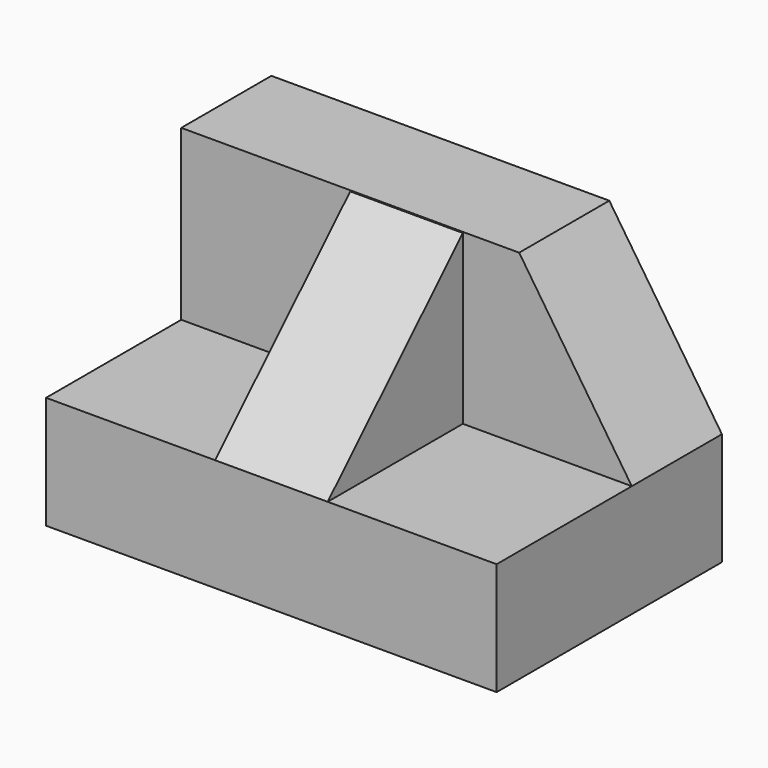
from build123d import *

# Parameters (mm, degrees)
F0_W     = 50.8
F0_H     = 31.75
F1_DEPTH = 31.75
F2_W     = 19.05
F2_H     = 19.05
F3_DEPTH = 50.8
F5_DEPTH = 12.7
F7_START = -19.05
F7_DEPTH = 12.7


with BuildPart() as f1:
    # F0 (on Front) → F1 (new body)
    with BuildSketch(Plane.XZ):
        with Locations((25.4, 15.875)):
            Rectangle(F0_W, F0_H)
    extrude(amount=F1_DEPTH)

    # F2 (on face) → F3 (cut)
    with BuildSketch(Plane.YZ.offset(50.8)):
        with Locations((-22.225, 22.225)):
            Rectangle(F2_W, F2_H)
    extrude(amount=-F3_DEPTH, mode=Mode.SUBTRACT)

    # F4 (on face) → F5 (cut)
    with BuildSketch(Plane.XZ.offset(12.7)):
        Polygon((38.1, 31.75), (50.8, 12.7), (50.8, 31.75), align=None)
    extrude(amount=-F5_DEPTH, mode=Mode.SUBTRACT)

    # F6 (on face) → F7 (join)
    with BuildSketch(Plane.YZ.offset(50.8).offset(F7_START)):
        Polygon((-12.7, 31.635157764), (-31.75, 12.7), (-12.7, 12.7), align=None)
    extrude(amount=-F7_DEPTH)


solid = f1.part
